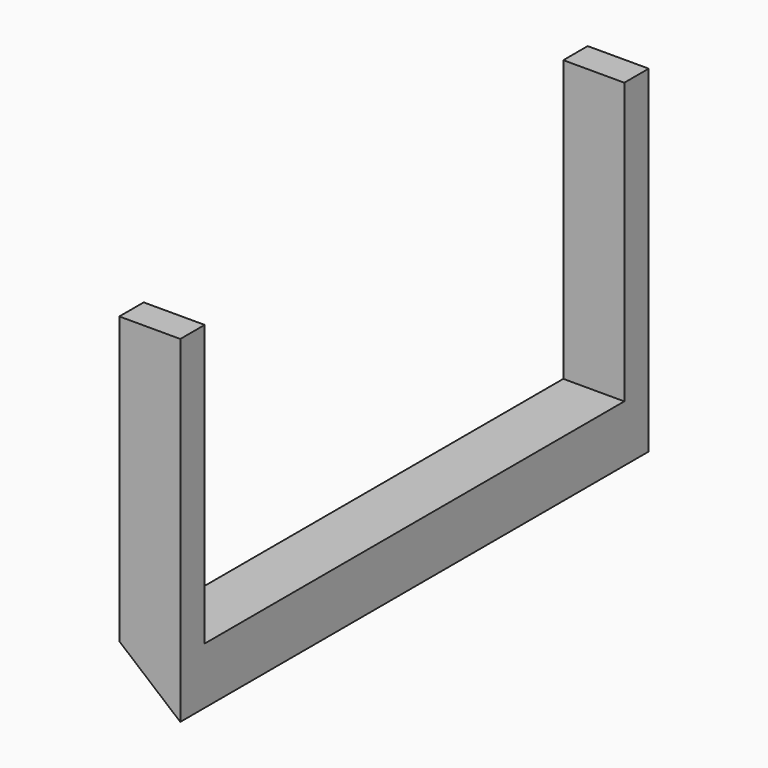
from build123d import *

# Parameters (mm, degrees)
BOX016_W               = 5
BOX016_H               = 96
BOX016_DEPTH           = 60
BOX016_PLACEMENT_ANGLE = 310
BOX015_W               = 5
BOX015_H               = 96
BOX015_DEPTH           = 60
BOX015_PLACEMENT_ANGLE = 310
BOX014_W               = 5
BOX014_H               = 86
BOX014_DEPTH           = 2
BOX011_W               = 5
BOX011_H               = 86
BOX011_DEPTH           = 24
BOX006_W               = 10
BOX006_H               = 86
BOX006_DEPTH           = 20
BOX005_W               = 5
BOX005_H               = 86
BOX005_DEPTH           = 49
BOX003_W               = 10
BOX003_H               = 96
BOX003_DEPTH           = 49
BOX007_W               = 10
BOX007_H               = 96
BOX007_DEPTH           = 10


with BuildPart() as cube016:
    # Box016 → Box016 (new body)
    with BuildSketch(Plane.XY):
        with Locations((2.5, 48)):
            Rectangle(BOX016_W, BOX016_H)
    extrude(amount=BOX016_DEPTH)


with BuildPart() as cube016_1:
    # Box016 placement: moved
    add(cube016.part.moved(Location((70, 2, -56))).rotate(Axis((70, 2, -56), (0, 1, 0)), BOX016_PLACEMENT_ANGLE))


with BuildPart() as cube015:
    # Box015 → Box015 (new body)
    with BuildSketch(Plane.XY):
        with Locations((2.5, 48)):
            Rectangle(BOX015_W, BOX015_H)
    extrude(amount=BOX015_DEPTH)


with BuildPart() as cube015_1:
    # Box015 placement: moved
    add(cube015.part.moved(Location((70, 2, -59))).rotate(Axis((70, 2, -59), (0, 1, 0)), BOX015_PLACEMENT_ANGLE))


with BuildPart() as cube014:
    # Box014 → Box014 (new body)
    with BuildSketch(Plane(origin=(55, 7, -36), x_dir=(1, 0, 0), z_dir=(0, 0, 1))):
        with Locations((2.5, 43)):
            Rectangle(BOX014_W, BOX014_H)
    extrude(amount=BOX014_DEPTH)


with BuildPart() as cube011:
    # Box011 → Box011 (new body)
    with BuildSketch(Plane(origin=(40, 7, -34), x_dir=(1, 0, 0), z_dir=(0, 0, 1))):
        with Locations((2.5, 43)):
            Rectangle(BOX011_W, BOX011_H)
    extrude(amount=BOX011_DEPTH)


with BuildPart() as cube006:
    # Box006 → Box006 (new body)
    with BuildSketch(Plane(origin=(40, 7, -10), x_dir=(1, 0, 0), z_dir=(0, 0, 1))):
        with Locations((5, 43)):
            Rectangle(BOX006_W, BOX006_H)
    extrude(amount=BOX006_DEPTH)


with BuildPart() as cube005:
    # Box005 → Box005 (new body)
    with BuildSketch(Plane(origin=(45, 7, -39), x_dir=(1, 0, 0), z_dir=(0, 0, 1))):
        with Locations((2.5, 43)):
            Rectangle(BOX005_W, BOX005_H)
    extrude(amount=BOX005_DEPTH)


with BuildPart() as cut007:
    # Box003 → Box003 (new body)
    with BuildSketch(Plane(origin=(40, 2, -39), x_dir=(1, 0, 0), z_dir=(0, 0, 1))):
        with Locations((5, 48)):
            Rectangle(BOX003_W, BOX003_H)
    extrude(amount=BOX003_DEPTH)

    # Cut: cut Cube005
    add(cube005.part, mode=Mode.SUBTRACT)

    # Cut001: cut Cube006
    add(cube006.part, mode=Mode.SUBTRACT)

    # Cut004: cut Cube011
    add(cube011.part, mode=Mode.SUBTRACT)


with BuildPart() as cut007_1:
    # Cut004 placement: moved
    add(cut007.part.moved(Location((15, 0, 0))))

    # Cut007: cut Cube014
    add(cube014.part, mode=Mode.SUBTRACT)


with BuildPart() as cut009:
    # Box007 → Box007 (new body)
    with BuildSketch(Plane(origin=(55, 2, -46), x_dir=(1, 0, 0), z_dir=(0, 0, 1))):
        with Locations((5, 48)):
            Rectangle(BOX007_W, BOX007_H)
    extrude(amount=BOX007_DEPTH)

    # Fusion: union Cut007
    add(cut007_1.part)

    # Cut008: cut Cube015
    add(cube015_1.part, mode=Mode.SUBTRACT)

    # Cut009: cut Cube016
    add(cube016_1.part, mode=Mode.SUBTRACT)


solid = cut009.part
